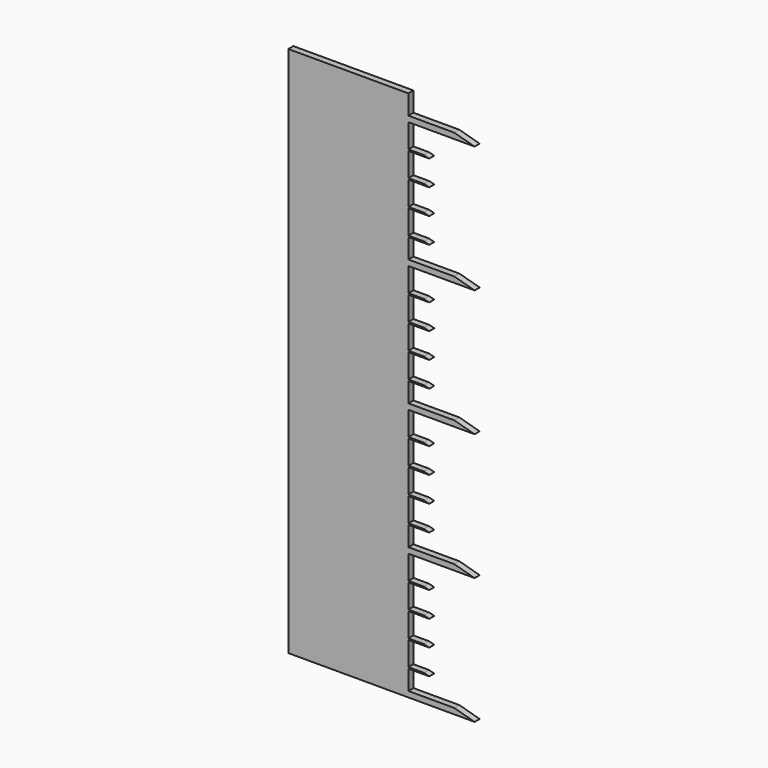
from build123d import *

# Parameters (mm, degrees)
F1_DEPTH = 25


with BuildPart() as f1:
    # F0 (on Front) → F1 (new body)
    with BuildSketch(Plane.XZ):
        Polygon((0, 2100), (0, 0), (474.152878, 0), (474.152878, 5.451718), (474.152878, 22.404142), (474.152878, 100), (474.152878, 105.451718), (474.152878, 200), (474.152878, 205.451718), (474.152878, 300), (474.152878, 305.451718), (474.152878, 400), (474.152878, 405.451718), (474.152878, 500), (474.152878, 505.451718), (474.152878, 522.404142), (474.152878, 600), (474.152878, 605.451718), (474.152878, 700), (474.152878, 705.451718), (474.152878, 800), (474.152878, 805.451718), (474.152878, 900), (474.152878, 905.451718), (474.152878, 1000), (474.152878, 1005.451718), (474.152878, 1022.404142), (474.152878, 1100), (474.152878, 1105.451718), (474.152878, 1200), (474.152878, 1205.451718), (474.152878, 1300), (474.152878, 1305.451718), (474.152878, 1400), (474.152878, 1405.451718), (474.152878, 1500), (474.152878, 1505.451718), (474.152878, 1522.404142), (474.152878, 1600), (474.152878, 1605.451718), (474.152878, 1700), (474.152878, 1705.451718), (474.152878, 1800), (474.152878, 1805.451718), (474.152878, 1900), (474.152878, 1905.451718), (474.152878, 2000), (474.152878, 2022.404142), (474.152878, 2100), align=None)
        Polygon((474.152878, 5.451718), (474.152878, 0), (556.551218, 0), (535.71403, 5.451718), align=None)
        Polygon((474.152878, 22.404142), (474.152878, 5.451718), (535.71403, 5.451718), (556.551218, 0), (735.740867, 0), (655.585787, 22.404142), align=None)
        Polygon((655.585787, 2022.404142), (474.152878, 2022.404142), (474.152878, 2000), (735.740867, 2000), align=None)
        Polygon((474.152878, 105.451718), (474.152878, 100), (556.551218, 100), (535.71403, 105.451718), align=None)
        Polygon((535.71403, 1905.451718), (474.152878, 1905.451718), (474.152878, 1900), (556.551218, 1900), align=None)
        Polygon((474.152878, 205.451718), (474.152878, 200), (556.551218, 200), (535.71403, 205.451718), align=None)
        Polygon((535.71403, 1805.451718), (474.152878, 1805.451718), (474.152878, 1800), (556.551218, 1800), align=None)
        Polygon((474.152878, 305.451718), (474.152878, 300), (556.551218, 300), (535.71403, 305.451718), align=None)
        Polygon((535.71403, 1705.451718), (474.152878, 1705.451718), (474.152878, 1700), (556.551218, 1700), align=None)
        Polygon((474.152878, 405.451718), (474.152878, 400), (556.551218, 400), (535.71403, 405.451718), align=None)
        Polygon((535.71403, 1605.451718), (474.152878, 1605.451718), (474.152878, 1600), (556.551218, 1600), align=None)
        Polygon((474.152878, 505.451718), (474.152878, 500), (556.551218, 500), (535.71403, 505.451718), align=None)
        Polygon((474.152878, 522.404142), (474.152878, 505.451718), (535.71403, 505.451718), (556.551218, 500), (735.740867, 500), (655.585787, 522.404142), align=None)
        Polygon((655.585787, 1522.404142), (474.152878, 1522.404142), (474.152878, 1505.451718), (535.71403, 1505.451718), (556.551218, 1500), (735.740867, 1500), align=None)
        Polygon((535.71403, 1505.451718), (474.152878, 1505.451718), (474.152878, 1500), (556.551218, 1500), align=None)
        Polygon((474.152878, 605.451718), (474.152878, 600), (556.551218, 600), (535.71403, 605.451718), align=None)
        Polygon((535.71403, 1405.451718), (474.152878, 1405.451718), (474.152878, 1400), (556.551218, 1400), align=None)
        Polygon((474.152878, 705.451718), (474.152878, 700), (556.551218, 700), (535.71403, 705.451718), align=None)
        Polygon((535.71403, 1305.451718), (474.152878, 1305.451718), (474.152878, 1300), (556.551218, 1300), align=None)
        Polygon((474.152878, 805.451718), (474.152878, 800), (556.551218, 800), (535.71403, 805.451718), align=None)
        Polygon((535.71403, 1205.451718), (474.152878, 1205.451718), (474.152878, 1200), (556.551218, 1200), align=None)
        Polygon((474.152878, 905.451718), (474.152878, 900), (556.551218, 900), (535.71403, 905.451718), align=None)
        Polygon((535.71403, 1105.451718), (474.152878, 1105.451718), (474.152878, 1100), (556.551218, 1100), align=None)
        Polygon((474.152878, 1005.451718), (474.152878, 1000), (556.551218, 1000), (535.71403, 1005.451718), align=None)
        Polygon((474.152878, 1022.404142), (474.152878, 1005.451718), (535.71403, 1005.451718), (556.551218, 1000), (735.740867, 1000), (655.585787, 1022.404142), align=None)
    extrude(amount=F1_DEPTH)


solid = f1.part
